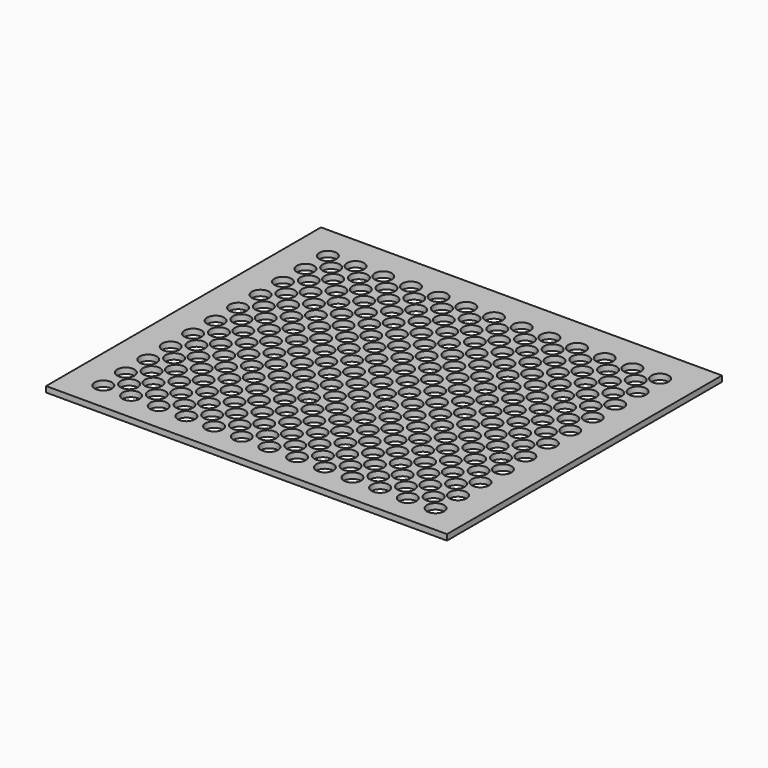
from build123d import *

# Parameters (mm, degrees)
CYLINDER006_R     = 1.5
CYLINDER006_DEPTH = 1
ARRAY004_X_COUNT  = 12
ARRAY004_X_PITCH  = 4.8333
ARRAY004_Y_COUNT  = 10
ARRAY004_Y_PITCH  = 4.9
CYLINDER005_R     = 1.5
CYLINDER005_DEPTH = 1
ARRAY003_X_COUNT  = 13
ARRAY003_X_PITCH  = 4.8333
ARRAY003_Y_COUNT  = 11
ARRAY003_Y_PITCH  = 4.9
BOX013_W          = 70
BOX013_H          = 60
BOX013_DEPTH      = 1


with BuildPart() as grill_holes001:
    # Cylinder006 → Cylinder006 (new body)
    with BuildSketch(Plane(origin=(-27.5, -22.5, 0), x_dir=(1, 0, 0), z_dir=(0, 0, 1))):
        Circle(CYLINDER006_R)
    extrude(amount=CYLINDER006_DEPTH)

    # Array004 X: GRILL_holes001 ×12


with BuildPart() as grill_holes001_1:
    add(grill_holes001.part)
    with Locations(*[(i * ARRAY004_X_PITCH, 0, 0) for i in range(1, ARRAY004_X_COUNT)]):
        add(grill_holes001.part)

    # Array004 Y: GRILL_holes001 ×10


with BuildPart() as grill_holes001_2:
    add(grill_holes001_1.part)
    with Locations(*[(0, i * ARRAY004_Y_PITCH, 0) for i in range(1, ARRAY004_Y_COUNT)]):
        add(grill_holes001_1.part)


with BuildPart() as grill_holes:
    # Cylinder005 → Cylinder005 (new body)
    with BuildSketch(Plane(origin=(-30, -25, 0), x_dir=(1, 0, 0), z_dir=(0, 0, 1))):
        Circle(CYLINDER005_R)
    extrude(amount=CYLINDER005_DEPTH)

    # Array003 X: GRILL_holes ×13


with BuildPart() as grill_holes_1:
    add(grill_holes.part)
    with Locations(*[(i * ARRAY003_X_PITCH, 0, 0) for i in range(1, ARRAY003_X_COUNT)]):
        add(grill_holes.part)

    # Array003 Y: GRILL_holes ×11


with BuildPart() as grill_holes_2:
    add(grill_holes_1.part)
    with Locations(*[(0, i * ARRAY003_Y_PITCH, 0) for i in range(1, ARRAY003_Y_COUNT)]):
        add(grill_holes_1.part)


with BuildPart() as grill:
    # Box013 → Box013 (new body)
    with BuildSketch(Plane(origin=(-36, -30, 0), x_dir=(1, 0, 0), z_dir=(0, 0, 1))):
        with Locations((35, 30)):
            Rectangle(BOX013_W, BOX013_H)
    extrude(amount=BOX013_DEPTH)

    # Cut010: cut GRILL_holes
    add(grill_holes_2.part, mode=Mode.SUBTRACT)

    # Cut011: cut GRILL_holes001
    add(grill_holes001_2.part, mode=Mode.SUBTRACT)


with BuildPart() as grill_1:
    # Cut011 placement: moved
    add(grill.part.moved(Location((-109, -7, -54.3))))


solid = grill_1.part
